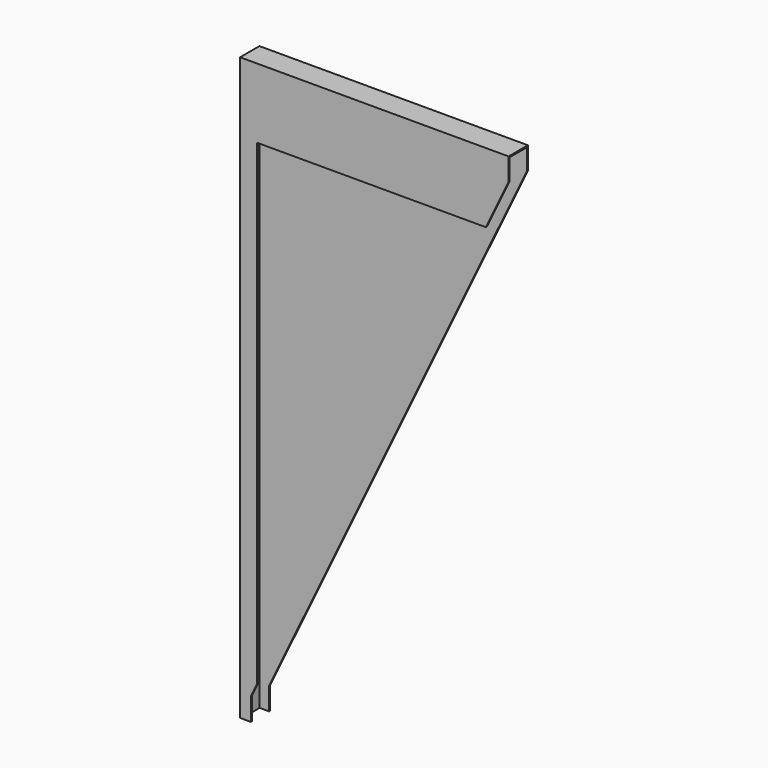
from build123d import *

# Parameters (mm, degrees)
F1_DEPTH = 5.715
F3_DEPTH = 5.3975
F4_W     = 5.08
F4_H     = 137.2235
F5_DEPTH = 63.165533


with BuildPart() as f1:
    # F0 (on Front) → F1 (new body)
    with BuildSketch(Plane.XZ):
        Polygon((30.312766, 68.7705), (-33.170266, 68.7705), (-33.170266, -68.7705), (-30.630266, -68.7705), (-30.630266, -63.478089), (30.312766, 63.50442), align=None)
    extrude(amount=F1_DEPTH)

    # F2 (on face) → F3 (cut)
    with BuildSketch(Plane.XZ.offset(5.715)):
        Polygon((24.928634, 52.2859), (-29.177386, 52.2859), (-29.177386, -60.45083), align=None)
    extrude(amount=-F3_DEPTH, mode=Mode.SUBTRACT)

    # F4 (on face) → F5 (cut)
    with BuildSketch(Plane.YZ.offset(30.312766)):
        with Locations((-2.8575, -0.15875)):
            Rectangle(F4_W, F4_H)
    extrude(amount=-F5_DEPTH, mode=Mode.SUBTRACT)


solid = f1.part
